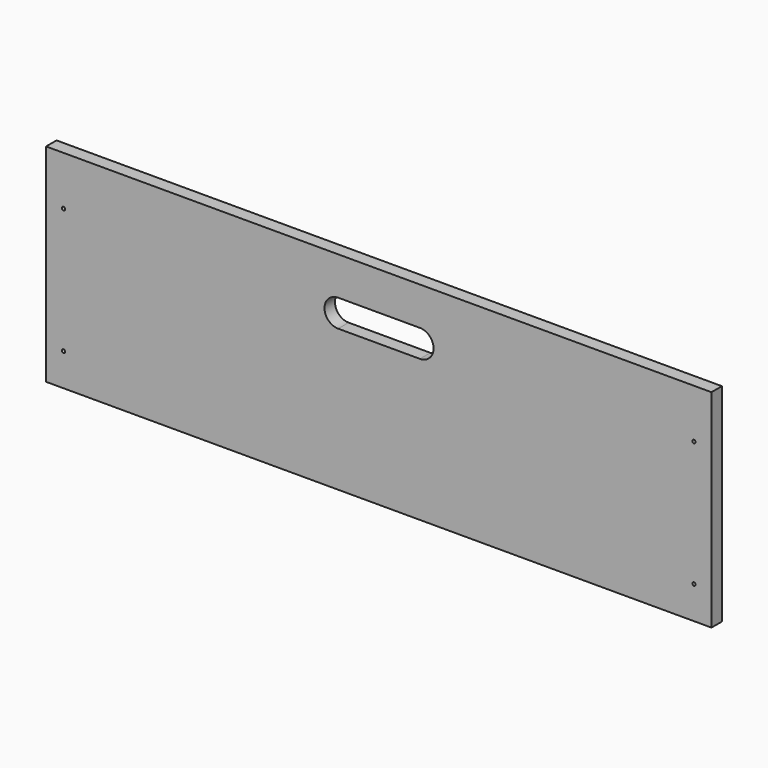
from build123d import *

# Parameters (mm, degrees)
F0_W     = 610
F0_H     = 190
F0_R     = 1.5
F1_DEPTH = 6


with BuildPart() as f1:
    # F0 (on Front) → F1 (new body, symmetric)
    with BuildSketch(Plane.XZ):
        Rectangle(F0_W, F0_H)
        with Locations((-289, -65)):
            Circle(F0_R, mode=Mode.SUBTRACT)
        with Locations((289, -65)):
            Circle(F0_R, mode=Mode.SUBTRACT)
        with Locations((-289, 50)):
            Circle(F0_R, mode=Mode.SUBTRACT)
        with BuildLine():
            ThreePointArc((37.7469517291, 60), (50.2469517291, 47.5), (37.7469517291, 35))
            Line((37.7469517291, 35), (-37.2530482709, 35))
            ThreePointArc((-37.2530482709, 35), (-49.7530482709, 47.5), (-37.2530482709, 60))
            Line((-37.2530482709, 60), (37.7469517291, 60))
        make_face(mode=Mode.SUBTRACT)
        with Locations((289, 50)):
            Circle(F0_R, mode=Mode.SUBTRACT)
    extrude(amount=F1_DEPTH, both=True)


solid = f1.part
